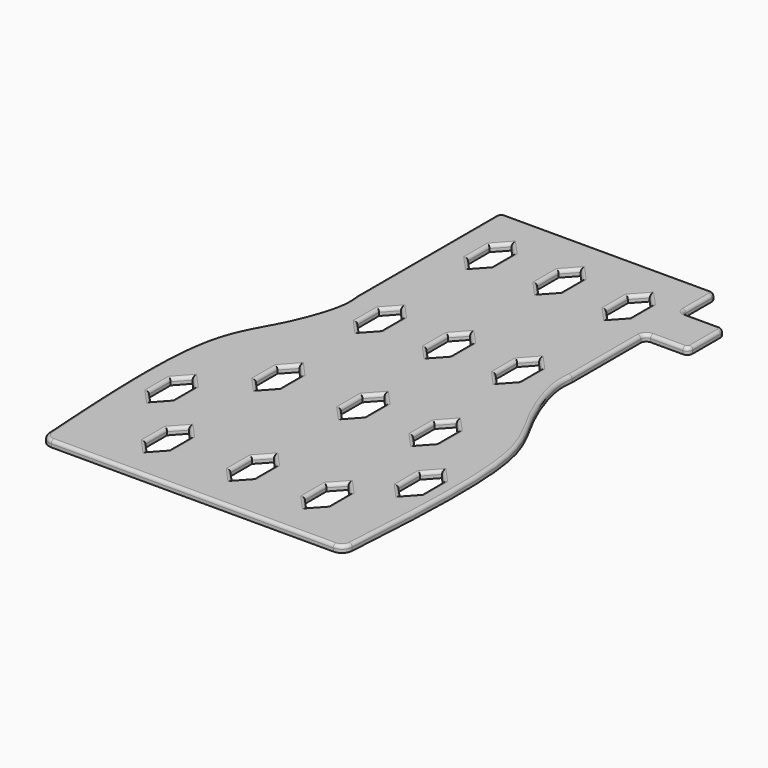
from build123d import *

# Parameters (mm, degrees)
F1_DEPTH = 6
F2_R     = 3


with BuildPart() as f1:
    # F0 (on Top) → F1 (new body)
    with BuildSketch(Plane.XY):
        with BuildLine():
            Line((95, 262.1821570396), (0, 262.1821570396))
            Line((0, 262.1821570396), (-95, 262.1821570396))
            ThreePointArc((-95, 262.1821570396), (-98.5355339059, 260.7176909456), (-100, 257.1821570396))
            Line((-100, 257.1821570396), (-100, 95.3790545464))
            add(Edge.make_bspline(
                [(-140.6018761806, -209.8051889464), (-145.28862702, -136.7092151999), (-151.7930566351, -23.6301706956), (-115.64488398, 25.6274545282), (-97.9540393108, 76.553678361), (-99.4446328149, 90.2689875565), (-100, 95.3790545464)],
                knots=[0.0173618711, 0.0173618711, 0.0173618711, 0.0173618711, 0.4243124, 0.6579372091, 0.8725538192, 1, 1, 1, 1], degree=3))
            ThreePointArc((-140.6018761806, -209.8051889464), (-137.4634707904, -216.4591114866), (-130.6223684602, -219.1653251648))
            Line((-130.6223684602, -219.1653251648), (130.6223684602, -219.1653251648))
            ThreePointArc((130.6223684602, -219.1653251648), (137.4634707904, -216.4591114866), (140.6018761806, -209.8051889464))
            add(Edge.make_bspline(
                [(140.6018761806, -209.8051889464), (145.28862702, -136.7092151999), (151.7930566351, -23.6301706956), (115.64488398, 25.6274545282), (97.9540393108, 76.553678361), (99.4446328149, 90.2689875565), (100, 95.3790545464)],
                knots=[0.0173618711, 0.0173618711, 0.0173618711, 0.0173618711, 0.4243124, 0.6579372091, 0.8725538192, 1, 1, 1, 1], degree=3))
            Line((100, 95.3790545464), (100, 175.0877600908))
            ThreePointArc((100, 175.0877600908), (101.4644660941, 178.6232939968), (105, 180.0877600908))
            Line((105, 180.0877600908), (135, 180.0877600908))
            ThreePointArc((135, 180.0877600908), (138.5355339059, 181.5522261849), (140, 185.0877600908))
            Line((140, 185.0877600908), (140, 217.1821570396))
            ThreePointArc((140, 217.1821570396), (138.5355339059, 220.7176909456), (135, 222.1821570396))
            Line((135, 222.1821570396), (105, 222.1821570396))
            ThreePointArc((105, 222.1821570396), (101.4644660941, 223.6466231337), (100, 227.1821570396))
            Line((100, 227.1821570396), (100, 257.1821570396))
            ThreePointArc((100, 257.1821570396), (98.5355339059, 260.7176909456), (95, 262.1821570396))
        make_face()
        Polygon((-113.0212247372, -77.5594741106), (-102.2047810256, -89.4264161587), (-102.2047810256, -114.4264161587), (-113.0212247372, -126.2933582067), (-123.8376684487, -114.4264161587), (-123.8376684487, -89.4264161587), align=None, mode=Mode.SUBTRACT)
        Polygon((-76.974330689, -177.1341983843), (-76.974330689, -152.1341983843), (-66.1578869775, -140.2672563362), (-55.3414432659, -152.1341983843), (-55.3414432659, -177.1341983843), (-66.1578869775, -189.0011404323), align=None, mode=Mode.SUBTRACT)
        Polygon((-64.1132891178, -15.046416223), (-53.2968454063, -26.9133582711), (-53.2968454063, -51.9133582711), (-64.1132891178, -63.7803003192), (-74.9297328293, -51.9133582711), (-74.9297328293, -26.9133582711), align=None, mode=Mode.SUBTRACT)
        Polygon((-1.0179981434, -173.7170352519), (-1.0179981434, -148.7170352519), (9.7984455681, -136.8500932038), (20.6148892796, -148.7170352519), (20.6148892796, -173.7170352519), (9.7984455681, -185.5839772999), align=None, mode=Mode.SUBTRACT)
        Polygon((78.761510551, -136.8500932038), (89.5779542625, -148.7170352519), (89.5779542625, -173.7170352519), (78.761510551, -185.5839772999), (67.9450668395, -173.7170352519), (67.9450668395, -148.7170352519), align=None, mode=Mode.SUBTRACT)
        Polygon((120.0424358249, -80.2271872759), (130.8588795364, -92.094129324), (130.8588795364, -117.094129324), (120.0424358249, -128.961071372), (109.2259921134, -117.094129324), (109.2259921134, -92.094129324), align=None, mode=Mode.SUBTRACT)
        Polygon((1.0265997163, -48.4961951387), (1.0265997163, -23.4961951387), (11.8430434278, -11.6292530907), (22.6594871393, -23.4961951387), (22.6594871393, -48.4961951387), (11.8430434278, -60.3631371868), align=None, mode=Mode.SUBTRACT)
        Polygon((78.761510551, -11.6292530907), (89.5779542625, -23.4961951387), (89.5779542625, -48.4961951387), (78.761510551, -60.3631371868), (67.9450668395, -48.4961951387), (67.9450668395, -23.4961951387), align=None, mode=Mode.SUBTRACT)
        Polygon((-74.0937069058, 64.5764083862), (-74.0937069058, 89.5764083862), (-63.2772631943, 101.4433504343), (-52.4608194828, 89.5764083862), (-52.4608194828, 64.5764083862), (-63.2772631943, 52.7094663382), align=None, mode=Mode.SUBTRACT)
        Polygon((-63.2772631943, 229.4433504343), (-52.4608194828, 217.5764083862), (-52.4608194828, 192.5764083862), (-63.2772631943, 180.7094663382), (-74.0937069058, 192.5764083862), (-74.0937069058, 217.5764083862), align=None, mode=Mode.SUBTRACT)
        Polygon((-10.0937069058, 64.5764083862), (-10.0937069058, 89.5764083862), (0.7227368057, 101.4433504343), (11.5391805172, 89.5764083862), (11.5391805172, 64.5764083862), (0.7227368057, 52.7094663382), align=None, mode=Mode.SUBTRACT)
        Polygon((53.9062930942, 64.5764083862), (53.9062930942, 89.5764083862), (64.7227368057, 101.4433504343), (75.5391805172, 89.5764083862), (75.5391805172, 64.5764083862), (64.7227368057, 52.7094663382), align=None, mode=Mode.SUBTRACT)
        Polygon((-10.0937069058, 192.5764083862), (-10.0937069058, 217.5764083862), (0.7227368057, 229.4433504343), (11.5391805172, 217.5764083862), (11.5391805172, 192.5764083862), (0.7227368057, 180.7094663382), align=None, mode=Mode.SUBTRACT)
        Polygon((53.9062930942, 192.5764083862), (53.9062930942, 217.5764083862), (64.7227368057, 229.4433504343), (75.5391805172, 217.5764083862), (75.5391805172, 192.5764083862), (64.7227368057, 180.7094663382), align=None, mode=Mode.SUBTRACT)
    extrude(amount=F1_DEPTH)

    # F2
    f2_edges = [f1.edges().sort_by_distance(p)[0] for p in [
        (144.230251, -53.070988, 6),
        (100, 135.233407, 6),
        (101.464466, 178.623294, 6),
        (120, 180.08776, 6),
        (138.535534, 181.552226, 6),
        (140, 201.134959, 6),
        (138.535534, 220.717691, 6),
        (120, 222.182157, 6),
        (101.464466, 223.646623, 6),
        (100, 242.182157, 6),
        (98.535534, 260.717691, 6),
        (0, 262.182157, 6),
        (-98.535534, 260.717691, 6),
        (-100, 176.280606, 6),
        (-144.230251, -53.070988, 6),
        (-137.463471, -216.459111, 6),
        (0, -219.165325, 6),
        (137.463471, -216.459111, 6),
        (-118.429447, -83.492945, 6),
        (-107.613003, -83.492945, 6),
        (-102.204781, -101.926416, 6),
        (-107.613003, -120.359887, 6),
        (-118.429447, -120.359887, 6),
        (-123.837668, -101.926416, 6),
        (-76.974331, -164.634198, 6),
        (-71.566109, -146.200727, 6),
        (-60.749665, -146.200727, 6),
        (-55.341443, -164.634198, 6),
        (-60.749665, -183.067669, 6),
        (-71.566109, -183.067669, 6),
        (-69.521511, -20.979887, 6),
        (-58.705067, -20.979887, 6),
        (-53.296845, -39.413358, 6),
        (-58.705067, -57.846829, 6),
        (-69.521511, -57.846829, 6),
        (-74.929733, -39.413358, 6),
        (-1.017998, -161.217035, 6),
        (4.390224, -142.783564, 6),
        (15.206667, -142.783564, 6),
        (20.614889, -161.217035, 6),
        (15.206667, -179.650506, 6),
        (4.390224, -179.650506, 6),
        (73.353289, -142.783564, 6),
        (84.169732, -142.783564, 6),
        (89.577954, -161.217035, 6),
        (84.169732, -179.650506, 6),
        (73.353289, -179.650506, 6),
        (67.945067, -161.217035, 6),
        (114.634214, -86.160658, 6),
        (125.450658, -86.160658, 6),
        (130.85888, -104.594129, 6),
        (125.450658, -123.0276, 6),
        (114.634214, -123.0276, 6),
        (109.225992, -104.594129, 6),
        (1.0266, -35.996195, 6),
        (6.434822, -17.562724, 6),
        (17.251265, -17.562724, 6),
        (22.659487, -35.996195, 6),
        (17.251265, -54.429666, 6),
        (6.434822, -54.429666, 6),
        (73.353289, -17.562724, 6),
        (84.169732, -17.562724, 6),
        (89.577954, -35.996195, 6),
        (84.169732, -54.429666, 6),
        (73.353289, -54.429666, 6),
        (67.945067, -35.996195, 6),
        (-74.093707, 77.076408, 6),
        (-68.685485, 95.509879, 6),
        (-57.869041, 95.509879, 6),
        (-52.460819, 77.076408, 6),
        (-57.869041, 58.642937, 6),
        (-68.685485, 58.642937, 6),
        (-68.685485, 223.509879, 6),
        (-57.869041, 223.509879, 6),
        (-52.460819, 205.076408, 6),
        (-57.869041, 186.642937, 6),
        (-68.685485, 186.642937, 6),
        (-74.093707, 205.076408, 6),
        (-10.093707, 77.076408, 6),
        (-4.685485, 95.509879, 6),
        (6.130959, 95.509879, 6),
        (11.539181, 77.076408, 6),
        (6.130959, 58.642937, 6),
        (-4.685485, 58.642937, 6),
        (53.906293, 77.076408, 6),
        (59.314515, 95.509879, 6),
        (70.130959, 95.509879, 6),
        (75.539181, 77.076408, 6),
        (70.130959, 58.642937, 6),
        (59.314515, 58.642937, 6),
        (-10.093707, 205.076408, 6),
        (-4.685485, 223.509879, 6),
        (6.130959, 223.509879, 6),
        (11.539181, 205.076408, 6),
        (6.130959, 186.642937, 6),
        (-4.685485, 186.642937, 6),
        (53.906293, 205.076408, 6),
        (59.314515, 223.509879, 6),
        (70.130959, 223.509879, 6),
        (75.539181, 205.076408, 6),
        (70.130959, 186.642937, 6),
        (59.314515, 186.642937, 6),
    ]]
    fillet(f2_edges, radius=F2_R)


solid = f1.part
